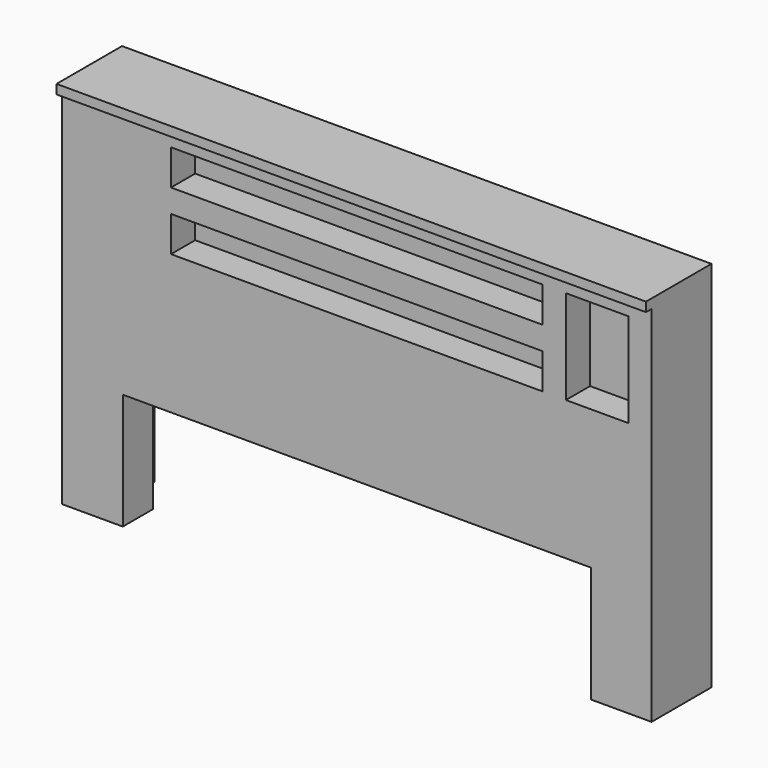
from build123d import *

# Parameters (mm, degrees)
F0_W     = 1016
F0_H     = 96.8375
F0_W_2   = 1611.3125
F0_H_2   = 25.4
F0_W_3   = 170.65625
F0_H_3   = 257.175
F1_DEPTH = 223.8375
F2_DEPTH = 101.6
F3_DEPTH = 19.05
F4_W     = 77.7875
F4_H     = 96.8375
F5_DEPTH = 190.5
F7_DEPTH = 101.6


with BuildPart() as f1:
    # F0 (on Front) → F1 (new body)
    with BuildSketch(Plane.XZ):
        Polygon((0, 698.5), (0, 0), (165.89375, 0), (165.89375, 317.5), (1445.41875, 317.5), (1445.41875, 0), (1611.3125, 0), (1611.3125, 698.5), (1547.8125, 698.5), (1377.15625, 698.5), (1313.65625, 698.5), (297.65625, 698.5), align=None)
        Polygon((0, 993.775), (0, 698.5), (297.65625, 698.5), (297.65625, 795.3375), (1313.65625, 795.3375), (1313.65625, 698.5), (1377.15625, 698.5), (1377.15625, 955.675), (1547.8125, 955.675), (1547.8125, 698.5), (1611.3125, 698.5), (1611.3125, 993.775), align=None)
        with Locations((805.65625, 907.25625)):
            Rectangle(F0_W, F0_H, mode=Mode.SUBTRACT)
        with Locations((805.65625, 746.91875)):
            Rectangle(F0_W, F0_H)
        with Locations((805.65625, 907.25625)):
            Rectangle(F0_W, F0_H)
        with Locations((805.65625, 1006.475)):
            Rectangle(F0_W_2, F0_H_2)
        with Locations((1462.484375, 827.0875)):
            Rectangle(F0_W_3, F0_H_3)
    extrude(amount=-F1_DEPTH)

    # F0 (on Front) → F2 (cut)
    with BuildSketch(Plane.XZ):
        with Locations((805.65625, 907.25625)):
            Rectangle(F0_W, F0_H)
        with Locations((805.65625, 746.91875)):
            Rectangle(F0_W, F0_H)
        with Locations((1462.484375, 827.0875)):
            Rectangle(F0_W_3, F0_H_3)
    extrude(amount=-F2_DEPTH, mode=Mode.SUBTRACT)

    # F0 (on Front) → F3 (cut)
    with BuildSketch(Plane.XZ):
        Polygon((0, 698.5), (0, 0), (165.89375, 0), (165.89375, 317.5), (1445.41875, 317.5), (1445.41875, 0), (1611.3125, 0), (1611.3125, 698.5), (1547.8125, 698.5), (1377.15625, 698.5), (1313.65625, 698.5), (297.65625, 698.5), align=None)
        Polygon((0, 993.775), (0, 698.5), (297.65625, 698.5), (297.65625, 795.3375), (1313.65625, 795.3375), (1313.65625, 698.5), (1377.15625, 698.5), (1377.15625, 955.675), (1547.8125, 955.675), (1547.8125, 698.5), (1611.3125, 698.5), (1611.3125, 993.775), align=None)
        with Locations((805.65625, 907.25625)):
            Rectangle(F0_W, F0_H, mode=Mode.SUBTRACT)
    extrude(amount=-F3_DEPTH, mode=Mode.SUBTRACT)

    # F4 (on face) → F5 (cut)
    with BuildSketch(Plane(origin=(0, 0, 0), x_dir=(0, -1, 0), z_dir=(-1, 0, 0))):
        with Locations((-121.44375, 907.25625)):
            Rectangle(F4_W, F4_H)
        with Locations((-121.44375, 746.91875)):
            Rectangle(F4_W, F4_H)
    extrude(amount=-F5_DEPTH, mode=Mode.SUBTRACT)

    # F6 (on face) → F7 (cut)
    with BuildSketch(Plane(origin=(0, 223.8375, 0), x_dir=(-1, 0, 0), z_dir=(0, 1, 0))):
        Polygon((-1522.4125, 609.6), (-1522.4125, 0), (-1445.41875, 0), (-1445.41875, 317.5), (-165.89375, 317.5), (-165.89375, 0), (-88.9, 0), (-88.9, 609.6), align=None)
    extrude(amount=-F7_DEPTH, mode=Mode.SUBTRACT)


solid = f1.part
